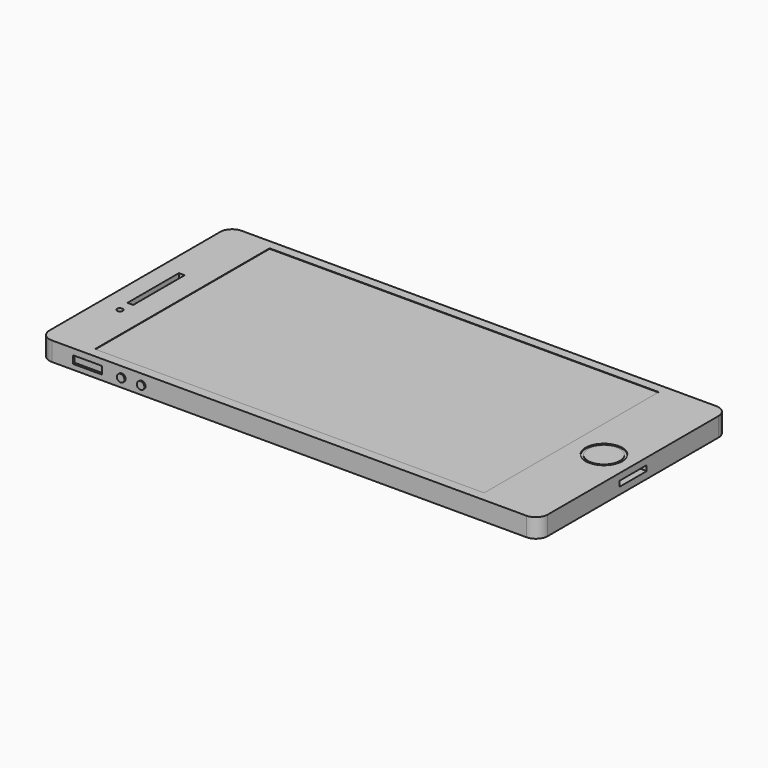
from build123d import *

# Parameters (mm, degrees)
F1_DEPTH  = 10.16
F2_W      = 208.28
F2_H      = 116.84
F3_DEPTH  = 0.254
F4_R      = 9.807477688
F4_R_2    = 8.537478745
F5_DEPTH  = 0.508
F6_DEPTH  = 0.254
F7_W      = 15.5448025422
F7_H      = 2.0574
F8_DEPTH  = 1.27
F9_DEPTH  = 0.254
F10_R     = 2.0193
F11_DEPTH = 0.762
F13_DEPTH = 2.54
F14_R     = 1.5445798635
F15_DEPTH = 2.54
F17_DEPTH = 76.2
F19_DEPTH = 0.762
F20_R     = 5.191457902
F20_R_2   = 3.4134577513
F21_DEPTH = 0.762
F22_DEPTH = 0.762
F23_R     = 2.6550671555
F24_DEPTH = 0.508


with BuildPart() as f1:
    # F0 (on Top) → F1 (new body)
    with BuildSketch(Plane.XY):
        with BuildLine():
            Line((-133.35, 0), (-133.35, -50.8))
            Line((-133.35, -50.8), (-133.35, -57.15))
            ThreePointArc((-133.35, -57.15), (-131.4901280605, -61.6401280605), (-127, -63.5))
            Line((-127, -63.5), (-120.65, -63.5))
            Line((-120.65, -63.5), (0, -63.5))
            Line((0, -63.5), (0, 0))
            Line((0, 0), (-133.35, 0))
        make_face()
        with BuildLine():
            Line((-133.35, 50.8), (-133.35, 0))
            Line((-133.35, 0), (0, 0))
            Line((0, 0), (0, 63.5))
            Line((0, 63.5), (-120.65, 63.5))
            Line((-120.65, 63.5), (-127, 63.5))
            ThreePointArc((-127, 63.5), (-131.4901280605, 61.6401280605), (-133.35, 57.15))
            Line((-133.35, 57.15), (-133.35, 50.8))
        make_face()
        with BuildLine():
            Line((0, 63.5), (0, 0))
            Line((0, 0), (0, -63.5))
            Line((0, -63.5), (120.65, -63.5))
            Line((120.65, -63.5), (127, -63.5))
            ThreePointArc((127, -63.5), (131.4901280605, -61.6401280605), (133.35, -57.15))
            Line((133.35, -57.15), (133.35, -50.8))
            Line((133.35, -50.8), (133.35, 50.8))
            Line((133.35, 50.8), (133.35, 57.15))
            ThreePointArc((133.35, 57.15), (131.4901280605, 61.6401280605), (127, 63.5))
            Line((127, 63.5), (120.65, 63.5))
            Line((120.65, 63.5), (0, 63.5))
        make_face()
    extrude(amount=F1_DEPTH)

    # F2 (on face) → F3 (cut)
    with BuildSketch(Plane.XY.offset(10.16)):
        with Locations((-3.81, 0)):
            Rectangle(F2_W, F2_H)
    extrude(amount=-F3_DEPTH, mode=Mode.SUBTRACT)

    # F4 (on face) → F5 (cut)
    with BuildSketch(Plane.XY.offset(10.16)):
        with Locations((117.7119389176, 0)):
            Circle(F4_R)
        with Locations((117.7119389176, 0)):
            Circle(F4_R_2, mode=Mode.SUBTRACT)
    extrude(amount=-F5_DEPTH, mode=Mode.SUBTRACT)

    # F6 (cut): a face of the model
    f6_faces = [f1.faces().sort_by_distance(p)[0] for p in [
        (117.7119389176, 0, 10.16),
    ]]
    extrude(f6_faces, amount=-F6_DEPTH, mode=Mode.SUBTRACT)

    # F7 (on face) → F8 (cut)
    with BuildSketch(Plane.XZ.offset(63.5)):
        with Locations((-107.9641506076, 5.8332554431)):
            Rectangle(F7_W, F7_H)
        with Locations((-107.9641506076, 3.7758554431)):
            Rectangle(F7_W, F7_H)
    extrude(amount=-F8_DEPTH, mode=Mode.SUBTRACT)

    # F7 (on face) → F9 (cut)
    with BuildSketch(Plane.XZ.offset(63.5)):
        with Locations((-107.9641506076, 5.8332554431)):
            Rectangle(F7_W, F7_H)
    extrude(amount=-F9_DEPTH, mode=Mode.SUBTRACT)

    # F10 (on face) → F11 (join)
    with BuildSketch(Plane.XZ.offset(63.5)):
        with Locations((-78.8557493365, 4.8045554431)):
            Circle(F10_R)
        with Locations((-89.5237493365, 4.8045554431)):
            Circle(F10_R)
    extrude(amount=F11_DEPTH)

    # F12 (on face) → F13 (cut)
    with BuildSketch(Plane.XY.offset(10.16)):
        Polygon((-120.4414889216, 17.2302983701), (-123.5122457147, 17.2302983701), (-123.5122457147, 0), (-123.5122457147, -17.2302983701), (-120.4414889216, -17.2302983701), (-120.4414889216, 0), align=None)
    extrude(amount=-F13_DEPTH, mode=Mode.SUBTRACT)

    # F14 (on face) → F15 (cut)
    with BuildSketch(Plane.XY.offset(10.16)):
        with Locations((-121.9860687852, -24.1657830775)):
            Circle(F14_R)
    extrude(amount=-F15_DEPTH, mode=Mode.SUBTRACT)

    # F16 (on face) → F17 (cut)
    with BuildSketch(Plane.YZ.offset(133.35)):
        Polygon((-9.0773701668, 3.7233135663), (0, 3.7233135663), (9.0773701668, 3.7233135663), (9.0773701668, 6.5667750314), (0, 6.5667750314), (-9.0773701668, 6.5667750314), align=None)
    extrude(amount=-F17_DEPTH, mode=Mode.SUBTRACT)

    # F18 (on face) → F19 (join)
    with BuildSketch(Plane(origin=(0, 63.5, 0), x_dir=(-1, 0, 0), z_dir=(0, 1, 0))):
        Polygon((98.232159481, 7.4123111553), (75.372159481, 7.4123111553), (75.372159481, 5.08), (75.372159481, 2.7476888447), (91.6486978531, 2.7476888447), (98.232159481, 2.7476888447), (98.232159481, 5.08), align=None)
    extrude(amount=F19_DEPTH)

    # F20 (on face) → F21 (join)
    with BuildSketch(Plane(origin=(0, 0, 0), x_dir=(1, 0, 0), z_dir=(0, 0, -1))):
        with Locations((-127, -55.3290322423)):
            Circle(F20_R)
        with Locations((-127, -55.3290322423)):
            Circle(F20_R_2, mode=Mode.SUBTRACT)
    extrude(amount=F21_DEPTH)

    # F20 (on face) → F22 (join)
    with BuildSketch(Plane(origin=(0, 0, 0), x_dir=(1, 0, 0), z_dir=(0, 0, -1))):
        with Locations((-127, -55.3290322423)):
            Circle(F20_R)
        with Locations((-127, -55.3290322423)):
            Circle(F20_R_2, mode=Mode.SUBTRACT)
    extrude(amount=F22_DEPTH)

    # F23 (on face) → F24 (join)
    with BuildSketch(Plane(origin=(0, 0, 0), x_dir=(1, 0, 0), z_dir=(0, 0, -1))):
        with Locations((-127.2339522839, -43.4491336346)):
            Circle(F23_R)
    extrude(amount=F24_DEPTH)


solid = f1.part
